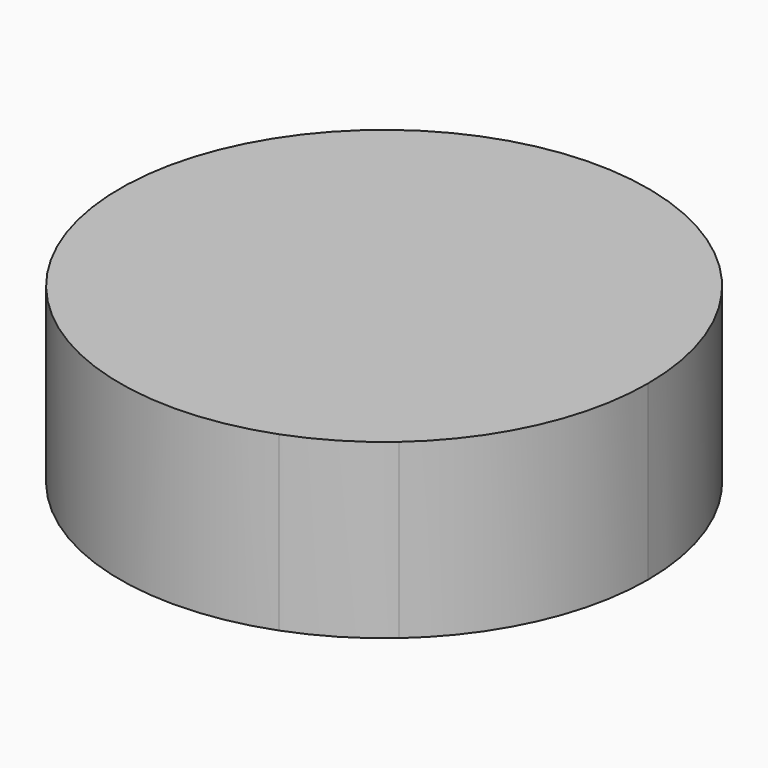
from build123d import *

# Parameters (mm, degrees)
F1_DEPTH = 29.972


with BuildPart() as f1:
    # F0 (on Top) → F1 (new body)
    with BuildSketch(Plane.XY):
        with BuildLine():
            ThreePointArc((-50.078645, -6.35), (-48.218773, -1.859872), (-43.728645, 0))
            Line((-43.728645, 0), (-35.991299, 0))
            ThreePointArc((-35.991299, 0), (-24.438435, 15.542301), (-20.343325, 34.470107))
            ThreePointArc((-20.343325, 34.470107), (-103.762605, 60.562117), (-50.078645, -8.413253))
            Line((-50.078645, -8.413253), (-50.078645, -6.35))
        make_face()
        with BuildLine():
            Line((-35.991299, 0), (-43.728645, 0))
            ThreePointArc((-43.728645, 0), (-48.218773, -1.859872), (-50.078645, -6.35))
            Line((-50.078645, -6.35), (-50.078645, -8.413253))
            ThreePointArc((-50.078645, -8.413253), (-42.655048, -4.84278), (-35.991299, 0))
        make_face()
    extrude(amount=F1_DEPTH)


solid = f1.part
